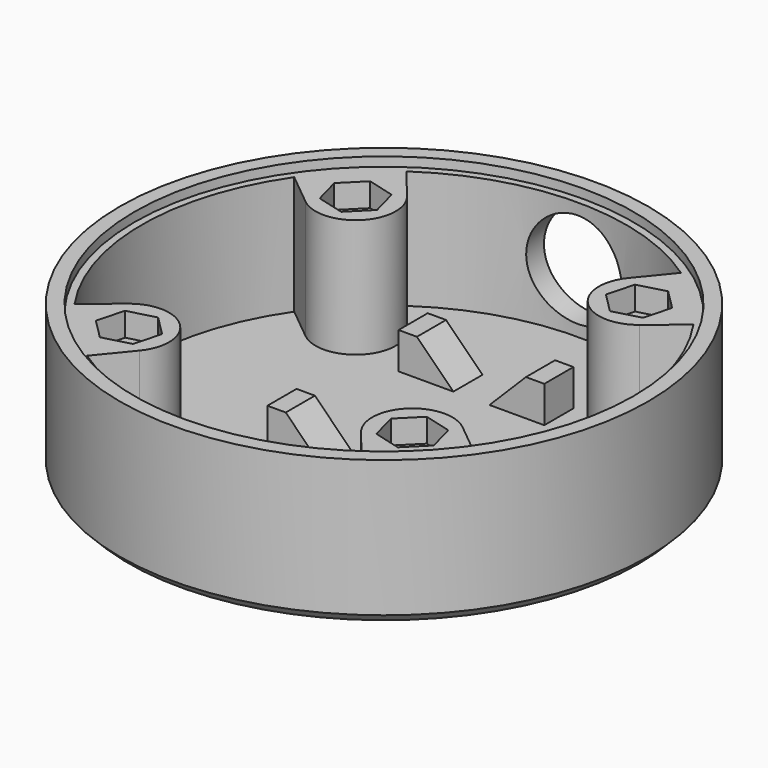
from build123d import *

# Parameters (mm, degrees)
PRISM002_DEPTH           = 2.6
PRISM002_PLACEMENT_ANGLE = 45
ARRAY_COUNT              = 4
CYLINDER003_R            = 5.25
CYLINDER003_DEPTH        = 36
CYLINDER003_ROLL_ANGLE   = 90
SKETCH011_R              = 29
PAD006_DEPTH             = 16
SKETCH_R                 = 27.4
POCKET_DEPTH             = 1
SKETCH012_R              = 1.6
POCKET003_DEPTH          = 13
SKETCH013_W              = 16
SKETCH013_H              = 4
PAD_DEPTH                = 4
POCKET004_DEPTH          = 24
CHAMFER_SIZE             = 1


with BuildPart() as array:
    # Prism002 → Prism002 (new body)
    with BuildSketch(Plane.XY):
        Polygon((3.1, 0), (1.55, 2.684679), (-1.55, 2.684679), (-3.1, 0), (-1.55, -2.684679), (1.55, -2.684679), align=None)
    extrude(amount=PRISM002_DEPTH)


with BuildPart() as array_1:
    # Prism002 placement: moved
    add(array.part.moved(Location((-15.5563, 15.5563, 12.4))).rotate(Axis((-15.5563, 15.5563, 12.4), (0, 0, 1)), PRISM002_PLACEMENT_ANGLE))

    # Array: Array ×4 about axis
    array_axis = Axis((0, 0, 0), (0, 0, 1))


with BuildPart() as array_2:
    add(array_1.part)
    for i in range(1, ARRAY_COUNT):
        add(array_1.part.rotate(array_axis, i * 360 / ARRAY_COUNT))


with BuildPart() as laser_pointer:
    # Cylinder003 → Cylinder003 (new body)
    with BuildSketch(Plane.XY):
        Circle(CYLINDER003_R)
    extrude(amount=CYLINDER003_DEPTH)


with BuildPart() as laser_pointer_1:
    # Cylinder003 roll: moved
    add(laser_pointer.part.rotate(Axis((0, 0, 0), (1, 0, 0)), CYLINDER003_ROLL_ANGLE))


with BuildPart() as laser_pointer_2:
    # Cylinder003 placement: moved
    add(laser_pointer_1.part.moved(Location((0, 30, 8.5))))


with BuildPart() as laser_enclosure:
    # Sketch011 → Pad006 (new body)
    with BuildSketch(Plane.XY):
        Circle(SKETCH011_R)
    extrude(amount=PAD006_DEPTH)

    # Sketch → Pocket (cut)
    with BuildSketch(Plane.XY.offset(16)):
        Circle(SKETCH_R)
    extrude(amount=-POCKET_DEPTH, mode=Mode.SUBTRACT)

    # Sketch012 → Pocket003 (cut)
    with BuildSketch(Plane.XY.offset(15)):
        with Locations((-15.556349, 15.556349)):
            Circle(SKETCH012_R)
        with Locations((-15.556349, -15.556349)):
            Circle(SKETCH012_R)
        with Locations((15.556349, -15.556349)):
            Circle(SKETCH012_R)
        with Locations((15.556349, 15.556349)):
            Circle(SKETCH012_R)
        with BuildLine():
            ThreePointArc((-15.072779, -21.917375), (0, -26.6), (15.072779, -21.917375))
            Line((15.072779, -21.917375), (12.149548, -18.340897))
            ThreePointArc((18.340897, -12.149548), (12.445079, -12.445079), (12.149548, -18.340897))
            Line((21.91738, -15.072773), (18.340897, -12.149548))
            ThreePointArc((21.91738, -15.072773), (26.6, 4e-06), (21.917375, 15.072779))
            Line((21.917375, 15.072779), (18.340897, 12.149548))
            ThreePointArc((12.149548, 18.340897), (12.445079, 12.445079), (18.340897, 12.149548))
            Line((15.072779, 21.917375), (12.149548, 18.340897))
            ThreePointArc((15.072779, 21.917375), (0, 26.6), (-15.072779, 21.917375))
            Line((-15.072779, 21.917375), (-12.149548, 18.340897))
            ThreePointArc((-18.340897, 12.149548), (-12.445079, 12.445079), (-12.149548, 18.340897))
            Line((-21.917375, 15.072779), (-18.340897, 12.149548))
            ThreePointArc((-21.917375, 15.072779), (-26.6, 0), (-21.917375, -15.072779))
            Line((-21.917375, -15.072779), (-18.340897, -12.149548))
            ThreePointArc((-12.149548, -18.340897), (-12.445079, -12.445079), (-18.340897, -12.149548))
            Line((-15.072779, -21.917375), (-12.149548, -18.340897))
        make_face()
    extrude(amount=-POCKET003_DEPTH, mode=Mode.SUBTRACT)

    # Sketch013 → Pad (new body)
    with BuildSketch(Plane.XY.offset(2)):
        with Locations((0, 14)):
            Rectangle(SKETCH013_W, SKETCH013_H)
        with Locations((0, -4)):
            Rectangle(SKETCH013_W, SKETCH013_H)
    extrude(amount=PAD_DEPTH)

    # Sketch014 → Pocket004 (cut)
    with BuildSketch(Plane.XZ.offset(6)):
        Polygon((5.985281, 6), (1.985281, 2), (-1.985281, 2), (-5.985281, 6), align=None)
    extrude(amount=-POCKET004_DEPTH, mode=Mode.SUBTRACT)

    # Cut: cut Laser pointer
    add(laser_pointer_2.part, mode=Mode.SUBTRACT)

    # Cut001: cut Array
    add(array_2.part, mode=Mode.SUBTRACT)

    # Chamfer
    chamfer_edges = [laser_enclosure.edges().sort_by_distance(p)[0] for p in [
        (-29, 0, 0),
    ]]
    chamfer(chamfer_edges, length=CHAMFER_SIZE)


solid = laser_enclosure.part
